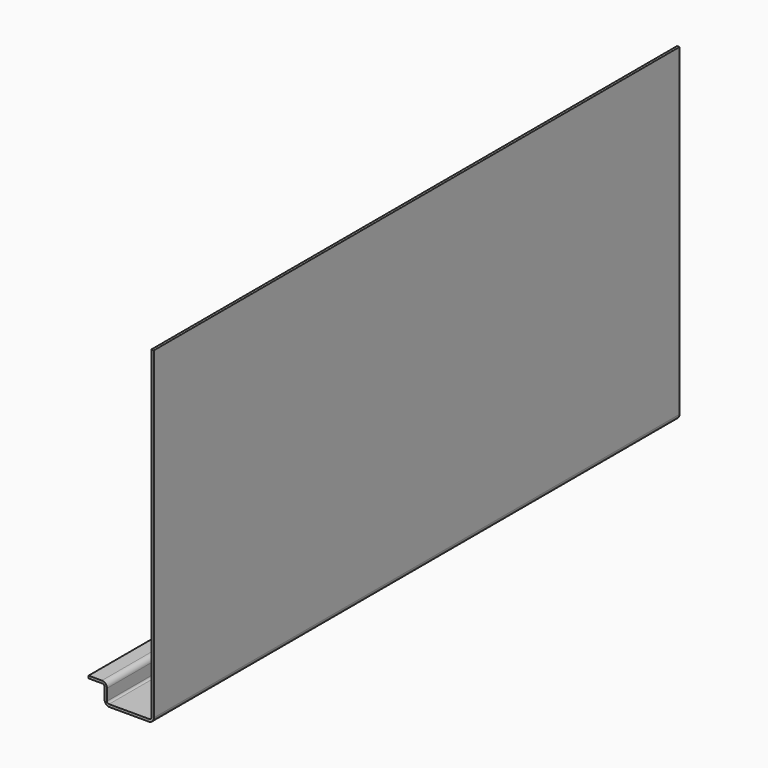
from build123d import *

# Parameters (mm, degrees)
F1_DEPTH = 508
F2_R     = 1.524
F3_R     = 3.9624


with BuildPart() as f1:
    # F0 (on Front) → F1 (new body)
    with BuildSketch(Plane.XZ):
        Polygon((7.950636, 9.393655), (7.950636, 7.488655), (20.320436, 7.488655), (20.320436, -6.786145), (58.445836, -6.786145), (58.445836, 247.213855), (56.540836, 247.213855), (56.540836, -4.881145), (22.225436, -4.881145), (22.225436, 9.393655), align=None)
    extrude(amount=-F1_DEPTH)

    # F2
    f2_edges = [f1.edges().sort_by_distance(p)[0] for p in [
        (20.320436, 254, 7.488655),
        (22.225436, 254, -4.881145),
        (56.540836, 254, -4.881145),
    ]]
    fillet(f2_edges, radius=F2_R)

    # F3
    f3_edges = [f1.edges().sort_by_distance(p)[0] for p in [
        (22.225436, 254, 9.393655),
        (20.320436, 254, -6.786145),
        (58.445836, 254, -6.786145),
    ]]
    fillet(f3_edges, radius=F3_R)


solid = f1.part
